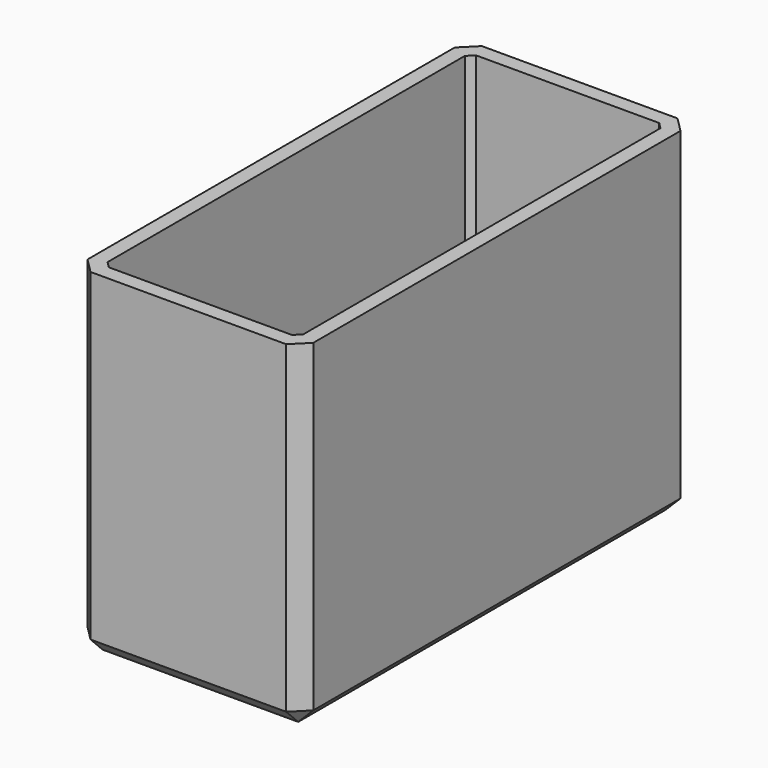
from build123d import *

# Parameters (mm, degrees)
F0_W     = 30
F0_H     = 65
F1_DEPTH = 45
F2_SIZE  = 2
F3_T     = -2


with BuildPart() as f1:
    # F0 (on Top) → F1 (new body)
    with BuildSketch(Plane.XY):
        Rectangle(F0_W, F0_H)
    extrude(amount=F1_DEPTH)

    # F2
    f2_edges = [f1.edges().sort_by_distance(p)[0] for p in [
        (15, -32.5, 22.5),
        (-15, -32.5, 22.5),
        (15, 32.5, 22.5),
        (-15, 32.5, 22.5),
        (15, 0, 0),
        (-15, 0, 0),
        (0, 32.5, 0),
        (0, -32.5, 0),
    ]]
    chamfer(f2_edges, length=F2_SIZE)

    # F3
    f3_openings = [f1.faces().sort_by_distance(p)[0] for p in [
        (0, 0, 45),
    ]]
    offset(amount=F3_T, openings=f3_openings)


solid = f1.part
